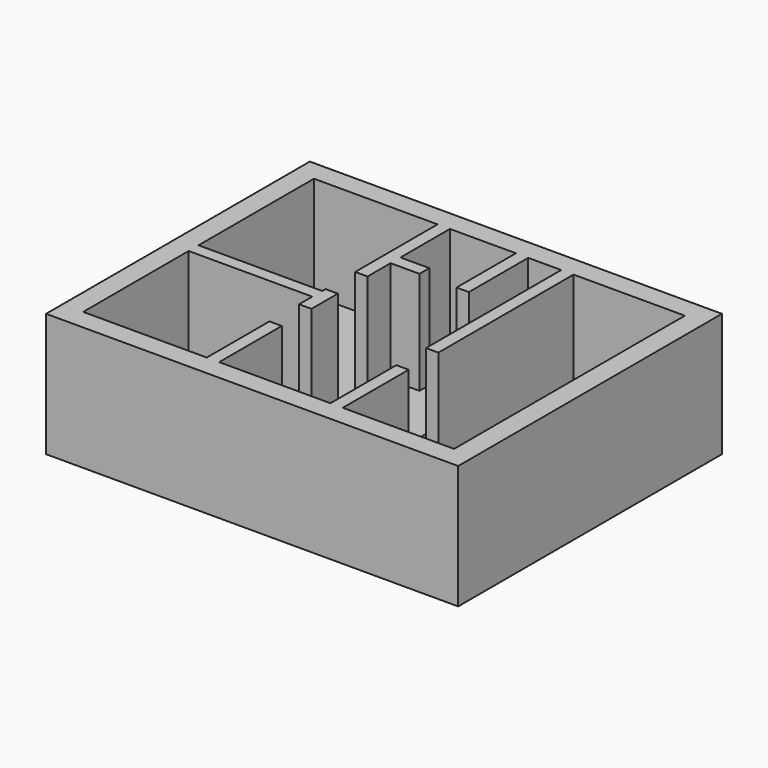
from build123d import *

# Parameters (mm, degrees)
F0_W     = 10000
F0_H     = 8000
F1_DEPTH = 3000
F2_T     = -500
F3_W     = 800
F3_H     = 3500
F4_DEPTH = 500.001
F5_W     = 300
F5_H     = 1900
F5_H_2   = 2000
F5_H_3   = 4100
F5_H_4   = 1800
F6_DEPTH = 2500


with BuildPart() as f1:
    # F0 (on Top) → F1 (new body)
    with BuildSketch(Plane.XY):
        Rectangle(F0_W, F0_H)
    extrude(amount=F1_DEPTH)

    # F2
    f2_openings = [f1.faces().sort_by_distance(p)[0] for p in [
        (0, 0, 3000),
    ]]
    offset(amount=F2_T, openings=f2_openings)

    # F3 (on face) → F4 (cut, through all)
    with BuildSketch(Plane.XY.offset(500)):
        with Locations((1100, 1750)):
            Rectangle(F3_W, F3_H)
    extrude(amount=-F4_DEPTH, mode=Mode.SUBTRACT)

    # F5 (on face) → F6 (join, through all)
    with BuildSketch(Plane.XY.offset(500)):
        Polygon((-1200, 2000), (-1200, 3500), (-1500, 3500), (-1500, 1000), (-1200, 1000), (-1200, 1700), (-500, 1700), (-500, 2000), align=None)
        Polygon((-1200, 100), (-1500, 100), (-1500, 0), (-4500, 0), (-4500, -300), (-1500, -300), (-1500, -700), (-1200, -700), align=None)
        with Locations((-1350, -2550)):
            Rectangle(F5_W, F5_H)
        with Locations((1650, -2500)):
            Rectangle(F5_W, F5_H_2)
        with Locations((1650, 1450)):
            Rectangle(F5_W, F5_H_3)
        with Locations((550, 2600)):
            Rectangle(F5_W, F5_H_4)
    extrude(amount=F6_DEPTH)


solid = f1.part
